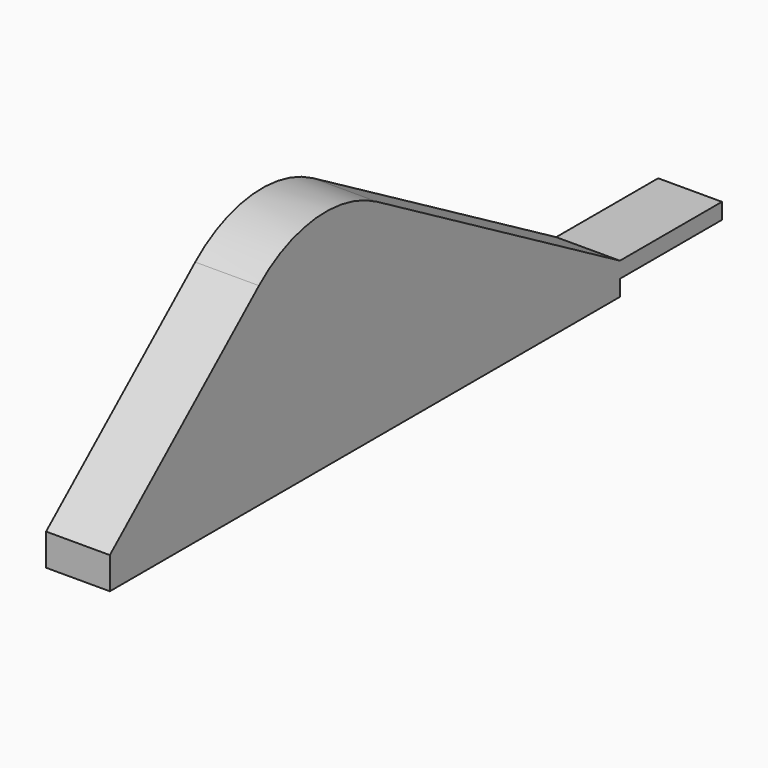
from build123d import *

# Parameters (mm, degrees)
F1_DEPTH = 12.7
F2_R     = 25.4
F3_W     = 12.7
F3_H     = 3.175
F4_DEPTH = 25.4


with BuildPart() as f1:
    # F0 (on Right) → F1 (new body)
    with BuildSketch(Plane.YZ):
        Polygon((0, 6.35), (0, 0), (127, 0), (127, 6.35), (50.8, 50.344091), align=None)
    extrude(amount=F1_DEPTH)

    # F2
    f2_edges = [f1.edges().sort_by_distance(p)[0] for p in [
        (6.35, 50.8, 50.344091),
    ]]
    fillet(f2_edges, radius=F2_R)

    # F3 (on face) → F4 (join)
    with BuildSketch(Plane(origin=(0, 127, 0), x_dir=(-1, 0, 0), z_dir=(0, 1, 0))):
        with Locations((-6.35, 4.7625)):
            Rectangle(F3_W, F3_H)
    extrude(amount=F4_DEPTH)


solid = f1.part
